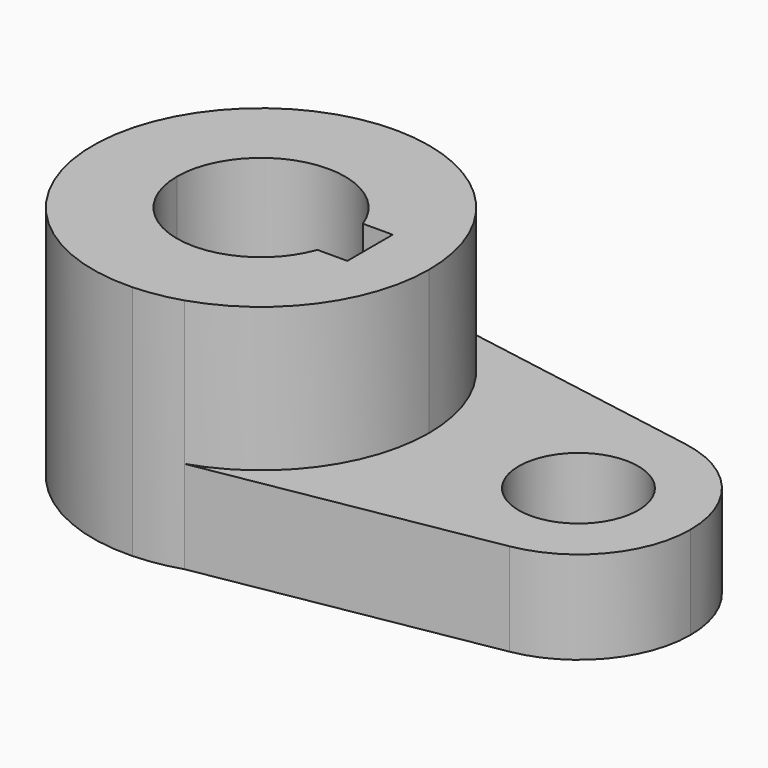
from build123d import *

# Parameters (mm, degrees)
F1_DEPTH = 40.2336
F2_DEPTH = 15.7734


with BuildPart() as f1:
    # F0 (on Top) → F1 (new body)
    with BuildSketch(Plane.XY):
        with BuildLine():
            Line((-24.3149382208, 28.5731852775), (-15.3797821546, 27.0339600099))
            ThreePointArc((-15.3797821546, 27.0339600099), (-19.7859221681, 28.160218487), (-24.3149382208, 28.5731852775))
        make_face()
        with BuildLine():
            ThreePointArc((-23.6722791381, -28.5587112045), (-19.7391616232, -28.1521232393), (-15.899826244, -27.2064853569))
            Line((-15.899826244, -27.2064853569), (-23.6722791381, -28.5587112045))
        make_face()
        with BuildLine():
            ThreePointArc((-15.899826244, -27.2064853569), (-1.5480749608, -16.8354771403), (3.9380243625, 0))
            ThreePointArc((3.9380243625, 0), (-1.3877291038, 16.6133428488), (-15.3797821546, 27.0339600099))
            Line((-15.3797821546, 27.0339600099), (-24.3149382208, 28.5731852775))
            ThreePointArc((-24.3149382208, 28.5731852775), (-53.2101679679, -0.3214110279), (-23.6722791381, -28.5587112045))
            Line((-23.6722791381, -28.5587112045), (-15.899826244, -27.2064853569))
        make_face()
        with BuildLine():
            ThreePointArc((-11.1892107582, -4.826), (-27.0862322121, -14.0760007986), (-38.9244756375, 0))
            ThreePointArc((-38.9244756375, 0), (-27.0862322121, 14.0760007986), (-11.1892107582, 4.826))
            Line((-11.1892107582, 4.826), (-6.1076756375, 4.826))
            Line((-6.1076756375, 4.826), (-6.1076756375, 0))
            Line((-6.1076756375, 0), (-6.1076756375, -4.826))
            Line((-6.1076756375, -4.826), (-11.1892107582, -4.826))
        make_face(mode=Mode.SUBTRACT)
    extrude(amount=F1_DEPTH)

    # F0 (on Top) → F2 (join)
    with BuildSketch(Plane.XY):
        with BuildLine():
            Line((10.2880243625, 0), (3.9380243625, 0))
            ThreePointArc((3.9380243625, 0), (-1.5480749608, -16.8354771403), (-15.899826244, -27.2064853569))
            Line((-15.899826244, -27.2064853569), (32.6032337053, -18.7680821595))
            ThreePointArc((32.6032337053, -18.7680821595), (17.0762899416, -14.579175868), (10.2880243625, 0))
        make_face()
        with BuildLine():
            ThreePointArc((-15.3797821546, 27.0339600099), (-1.3877291038, 16.6133428488), (3.9380243625, 0))
            Line((3.9380243625, 0), (10.2880243625, 0))
            ThreePointArc((10.2880243625, 0), (17.0641879423, 14.5689889674), (32.5720600088, 18.7734789913))
            Line((32.5720600088, 18.7734789913), (-15.3797821546, 27.0339600099))
        make_face()
        with BuildLine():
            ThreePointArc((32.5720600088, 18.7734789913), (17.0641879423, 14.5689889674), (10.2880243625, 0))
            ThreePointArc((10.2880243625, 0), (17.0762899416, -14.579175868), (32.6032337053, -18.7680821595))
            ThreePointArc((32.6032337053, -18.7680821595), (43.9172002305, -12.2617344209), (48.3880243625, 0))
            ThreePointArc((48.3880243625, 0), (43.9070133298, 12.2738364202), (32.5720600088, 18.7734789913))
        make_face()
        with BuildLine():
            ThreePointArc((39.4980243625, 0), (29.3380243625, -10.16), (19.1780243625, 0))
            ThreePointArc((19.1780243625, 0), (29.3380243625, 10.16), (39.4980243625, 0))
        make_face(mode=Mode.SUBTRACT)
    extrude(amount=F2_DEPTH)


solid = f1.part
